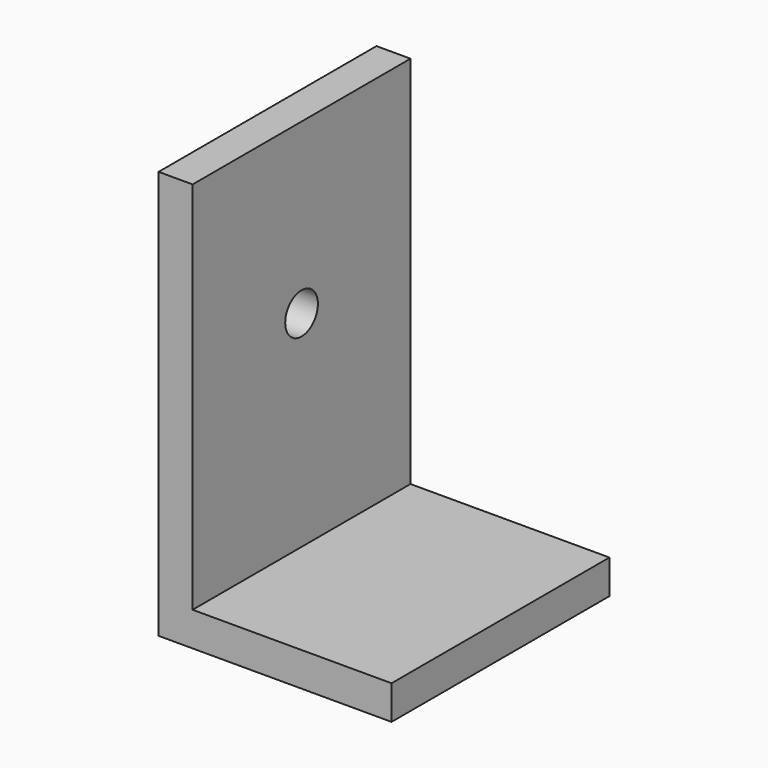
from build123d import *

# Parameters (mm, degrees)
F1_DEPTH = 25.4
F2_W     = 16.371028
F2_H     = 25.4
F3_DEPTH = 25.4
F4_R     = 1.905
F5_DEPTH = 25.4


with BuildPart() as f1:
    # F0 (on Front) → F1 (new body)
    with BuildSketch(Plane.XZ):
        Polygon((-18.553972, 20.450408), (-21.728972, 20.450408), (-21.728972, -17.649592), (16.371028, -17.649592), (16.371028, -14.474592), (-18.553972, -14.474592), align=None)
    extrude(amount=F1_DEPTH)

    # F2 (on face) → F3 (cut)
    with BuildSketch(Plane(origin=(0, 0, -17.649592), x_dir=(1, 0, 0), z_dir=(0, 0, -1))):
        with Locations((8.185514, 12.7)):
            Rectangle(F2_W, F2_H)
    extrude(amount=-F3_DEPTH, mode=Mode.SUBTRACT)

    # F4 (on face) → F5 (cut)
    with BuildSketch(Plane(origin=(-21.728972, 0, 0), x_dir=(0, -1, 0), z_dir=(-1, 0, 0))):
        with Locations((12.7, 4.702408)):
            Circle(F4_R)
    extrude(amount=-F5_DEPTH, mode=Mode.SUBTRACT)


solid = f1.part
